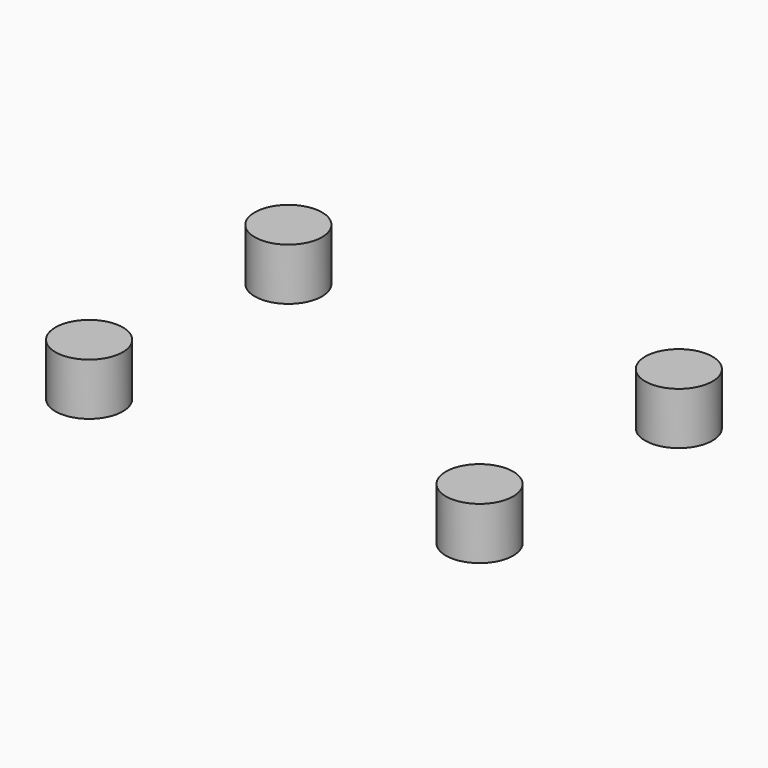
from build123d import *

# Parameters (mm, degrees)
CYLINDER008_R             = 5
CYLINDER008_DEPTH         = 7.75
CYLINDER009_R             = 5
CYLINDER009_DEPTH         = 7.75
CYLINDER010_R             = 5
CYLINDER010_DEPTH         = 7.75
CYLINDER011_R             = 5
CYLINDER011_DEPTH         = 7.75
FUSION002_PLACEMENT_ANGLE = 180


with BuildPart() as cylinder008:
    # Cylinder008 → Cylinder008 (new body)
    with BuildSketch(Plane(origin=(6, 75, 2), x_dir=(1, 0, 0), z_dir=(0, 0, 1))):
        Circle(CYLINDER008_R)
    extrude(amount=CYLINDER008_DEPTH)


with BuildPart() as cylinder009:
    # Cylinder009 → Cylinder009 (new body)
    with BuildSketch(Plane(origin=(64, 38, 2), x_dir=(1, 0, 0), z_dir=(0, 0, 1))):
        Circle(CYLINDER009_R)
    extrude(amount=CYLINDER009_DEPTH)


with BuildPart() as cylinder010:
    # Cylinder010 → Cylinder010 (new body)
    with BuildSketch(Plane(origin=(6, 38, 2), x_dir=(1, 0, 0), z_dir=(0, 0, 1))):
        Circle(CYLINDER010_R)
    extrude(amount=CYLINDER010_DEPTH)


with BuildPart() as basestop:
    # Cylinder011 → Cylinder011 (new body)
    with BuildSketch(Plane(origin=(64, 75, 2), x_dir=(1, 0, 0), z_dir=(0, 0, 1))):
        Circle(CYLINDER011_R)
    extrude(amount=CYLINDER011_DEPTH)

    # Fusion002: union Cylinder008, Cylinder009, Cylinder010
    add(cylinder008.part)
    add(cylinder009.part)
    add(cylinder010.part)


with BuildPart() as basestop_1:
    # Fusion002 placement: moved
    add(basestop.part.moved(Location((70, 0, 30))).rotate(Axis((70, 0, 30), (0, 1, 0)), FUSION002_PLACEMENT_ANGLE))


solid = basestop_1.part
